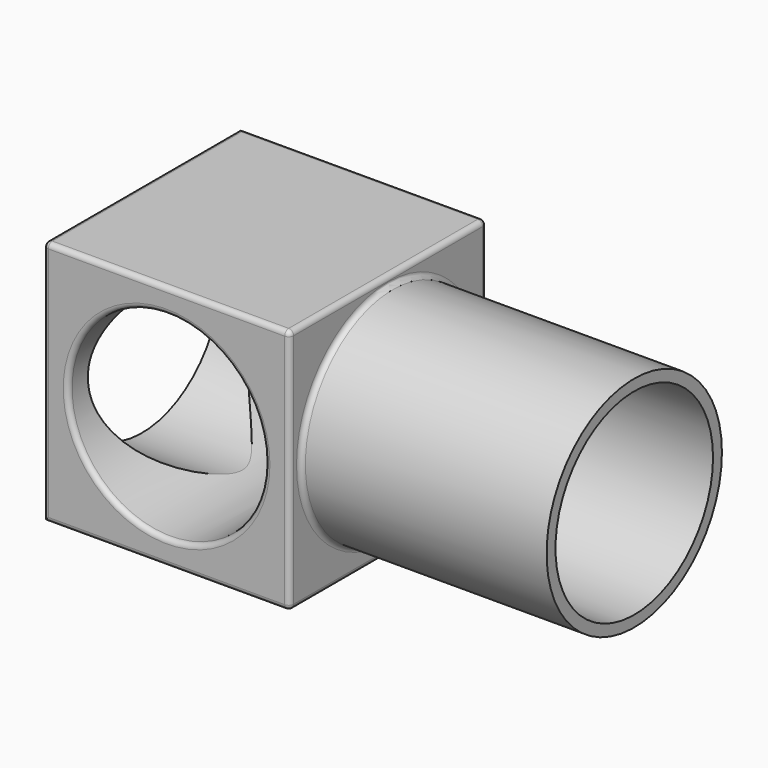
from build123d import *

# Parameters (mm, degrees)
F0_W     = 100
F0_H     = 100
F1_DEPTH = 100
F2_R     = 40
F3_DEPTH = 100.001
F4_R     = 40
F5_DEPTH = 100.001
F2_R_2   = 44.5208759626
F6_DEPTH = 100
F7_R     = 2


with BuildPart() as f1:
    # F0 (on Top) → F1 (new body)
    with BuildSketch(Plane.XY):
        Rectangle(F0_W, F0_H)
    extrude(amount=F1_DEPTH)

    # F2 (on face) → F3 (cut, through all)
    with BuildSketch(Plane.YZ.offset(50)):
        with Locations((0, 51.1895758084)):
            Circle(F2_R)
    extrude(amount=-F3_DEPTH, mode=Mode.SUBTRACT)

    # F4 (on face) → F5 (cut, through all)
    with BuildSketch(Plane.XZ.offset(50)):
        with Locations((0, 50.114749205)):
            Circle(F4_R)
    extrude(amount=-F5_DEPTH, mode=Mode.SUBTRACT)

    # F2 (on face) → F6 (join)
    with BuildSketch(Plane.YZ.offset(50)):
        with Locations((0, 51.1895758084)):
            Circle(F2_R_2)
        with Locations((0, 51.1895758084)):
            Circle(F2_R, mode=Mode.SUBTRACT)
    extrude(amount=F6_DEPTH)

    # F7
    f7_edges = [f1.edges().sort_by_distance(p)[0] for p in [
        (0, -50, 100),
        (50, 0, 100),
        (0, 50, 100),
        (-50, 0, 100),
        (50, -50, 50),
        (50, 0, 0),
        (50, 50, 50),
        (50, -44.520876, 51.189576),
        (-50, -50, 50),
        (0, -50, 0),
        (-40, -50, 50.114749),
    ]]
    fillet(f7_edges, radius=F7_R)


solid = f1.part
